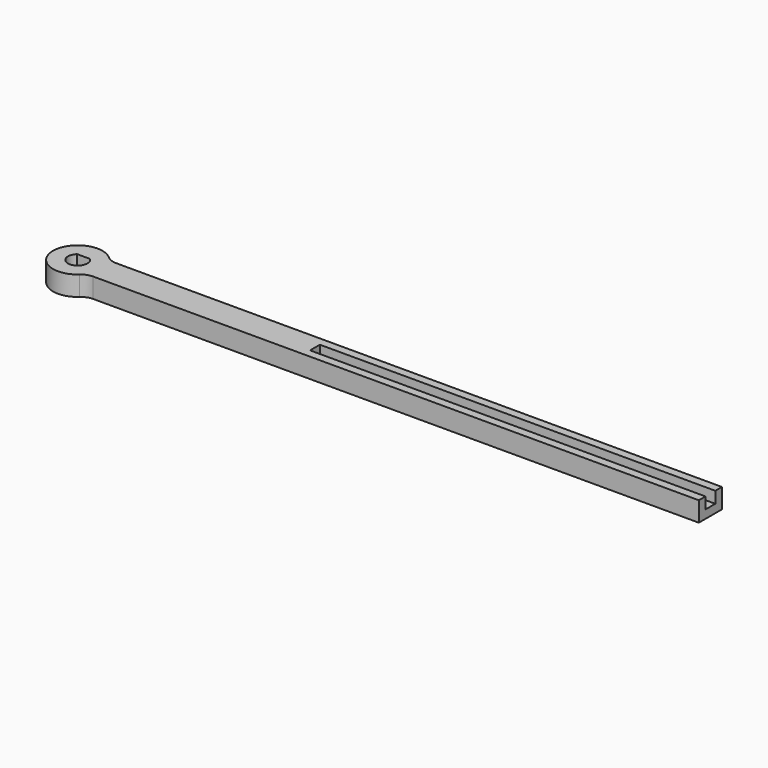
from build123d import *

# Parameters (mm, degrees)
F0_W      = 203.2
F0_H      = 9.271
F1_DEPTH  = 6.35
F2_W      = 127
F2_H      = 3.937
F3_DEPTH  = 3.683
F4_R      = 7.9375
F5_DEPTH  = 6.35
F6_R      = 5.08
F7_R      = 3.1115
F8_DEPTH  = 6.351
F9_W      = 9.525
F9_H      = 3.175
F10_DEPTH = 6.35


with BuildPart() as f1:
    # F0 (on Top) → F1 (new body)
    with BuildSketch(Plane.XY):
        with Locations((101.6, 4.6355)):
            Rectangle(F0_W, F0_H)
    extrude(amount=F1_DEPTH)

    # F2 (on face) → F3 (cut)
    with BuildSketch(Plane.XY.offset(6.35)):
        with Locations((139.7, 4.6355)):
            Rectangle(F2_W, F2_H)
    extrude(amount=-F3_DEPTH, mode=Mode.SUBTRACT)

    # F4 (on face) → F5 (join, through all)
    with BuildSketch(Plane.XY.offset(6.35)):
        with Locations((0, 4.6355)):
            Circle(F4_R)
    extrude(amount=-F5_DEPTH)

    # F6
    f6_edges = [f1.edges().sort_by_distance(p)[0] for p in [
        (6.443295, 9.271, 3.175),
        (6.443295, 0, 3.175),
    ]]
    fillet(f6_edges, radius=F6_R)

    # F7 (on face) → F8 (cut, through all)
    with BuildSketch(Plane.XY.offset(6.35)):
        with Locations((0, 4.6355)):
            Circle(F7_R)
    extrude(amount=-F8_DEPTH, mode=Mode.SUBTRACT)

    # F9 (on face) → F10 (join, through all)
    with BuildSketch(Plane.XY.offset(6.35)):
        with Locations((0.377471, 8.5725)):
            Rectangle(F9_W, F9_H)
    extrude(amount=-F10_DEPTH)


solid = f1.part
